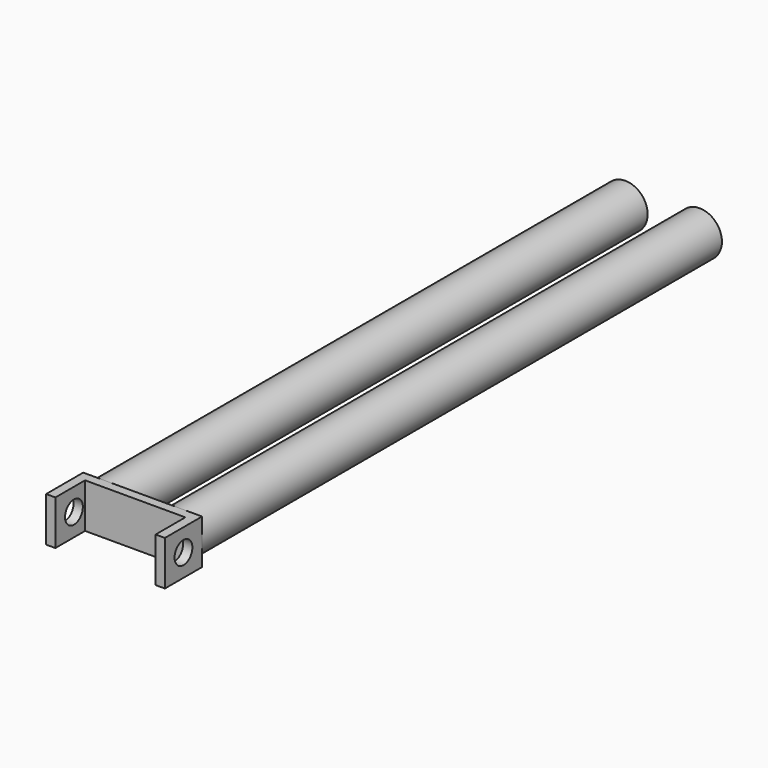
from build123d import *

# Parameters (mm, degrees)
F0_R     = 12
F0_R_2   = 11
F1_DEPTH = 350
F2_W     = 64
F2_H     = 24
F3_DEPTH = 25
F4_R     = 6
F5_DEPTH = 64.001
F6_W     = 54
F6_H     = 3
F6_H_2   = 20
F7_DEPTH = 24.001


with BuildPart() as f1:
    # F0 (on Front) → F1 (new body)
    with BuildSketch(Plane.XZ):
        with Locations((-20, 0)):
            Circle(F0_R)
        with Locations((-20, 0)):
            Circle(F0_R_2, mode=Mode.SUBTRACT)
        with Locations((20, 0)):
            Circle(F0_R)
        with Locations((20, 0)):
            Circle(F0_R_2, mode=Mode.SUBTRACT)
    extrude(amount=-F1_DEPTH)


with BuildPart() as f3:
    # F2 (on Front) → F3 (new body)
    with BuildSketch(Plane.XZ):
        Rectangle(F2_W, F2_H)
    extrude(amount=F3_DEPTH)

    # F4 (on face) → F5 (cut, through all)
    with BuildSketch(Plane.YZ.offset(32)):
        with Locations((-12.5, 0)):
            Circle(F4_R)
    extrude(amount=-F5_DEPTH, mode=Mode.SUBTRACT)

    # F6 (on face) → F7 (cut, through all)
    with BuildSketch(Plane.XY.offset(12)):
        with Locations((0, -26.5)):
            Rectangle(F6_W, F6_H)
        with Locations((0, -15)):
            Rectangle(F6_W, F6_H_2)
    extrude(amount=-F7_DEPTH, mode=Mode.SUBTRACT)


solid = Compound([f1.part, f3.part])
